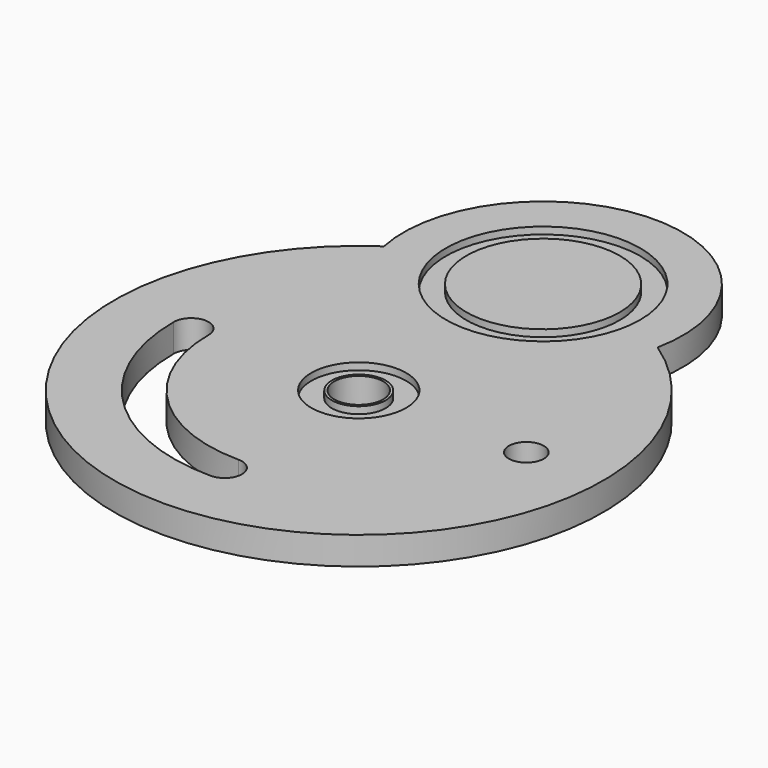
from build123d import *

# Parameters (mm, degrees)
SKETCH020_W   = 2.93428
SKETCH020_H   = 1
SKETCH021_W   = 2.93428
SKETCH021_H   = 1
SKETCH017_R   = 35
SKETCH017_R_2 = 2.5
SKETCH017_R_3 = 3.5
PAD_DEPTH     = 4
SKETCH018_R   = 20
PAD015_DEPTH  = 4


with BuildPart() as bearing_race_differential:
    # Sketch020 → Revolution008 (revolve)
    with BuildSketch(Plane(origin=(0, 33, -0.5), x_dir=(1, 0, 0), z_dir=(0, -1, 0))):
        with Locations((12.444345, -1)):
            Rectangle(SKETCH020_W, SKETCH020_H)
    revolve(axis=Axis((0, 33, -0.5), (0, 0, 1)))


with BuildPart() as bearing_races:
    # Sketch021 → Revolution009 (revolve)
    with BuildSketch(Plane(origin=(0, 0, -0.5), x_dir=(1, 0, 0), z_dir=(0, -1, 0))):
        with Locations((5.324198, -1)):
            Rectangle(SKETCH021_W, SKETCH021_H)
    revolve(axis=Axis((0, 0, -0.5), (0, 0, 1)))

    # Fusion015: union bearing race - differential
    add(bearing_race_differential.part)


with BuildPart() as main:
    # Sketch017 → Pad (new body)
    with BuildSketch(Plane.XY.offset(-1)):
        Circle(SKETCH017_R)
        with Locations((24, 0)):
            Circle(SKETCH017_R_2, mode=Mode.SUBTRACT)
        Circle(SKETCH017_R_3, mode=Mode.SUBTRACT)
        with BuildLine():
            ThreePointArc((-26.499998, 0.011018), (-18.746119, -18.730537), (-0.011018, -26.499998))
            ThreePointArc((-0.011018, -26.499998), (2.490021, -24.001037), (-0.008939, -21.499998))
            ThreePointArc((-21.499998, 0.008939), (-15.209115, -15.196474), (-0.008939, -21.499998))
            ThreePointArc((-21.499998, 0.008939), (-23.998959, 2.509978), (-26.499998, 0.011018))
        make_face(mode=Mode.SUBTRACT)
    extrude(amount=-PAD_DEPTH)


with BuildPart() as cut011002005:
    # Sketch018 → Pad015 (new body)
    with BuildSketch(Plane.XY.offset(-1)):
        with Locations((0, 33)):
            Circle(SKETCH018_R)
    extrude(amount=-PAD015_DEPTH)

    # Fusion: union Main
    add(main.part)

    # Cut011002005: cut bearing races
    add(bearing_races.part, mode=Mode.SUBTRACT)


solid = cut011002005.part
